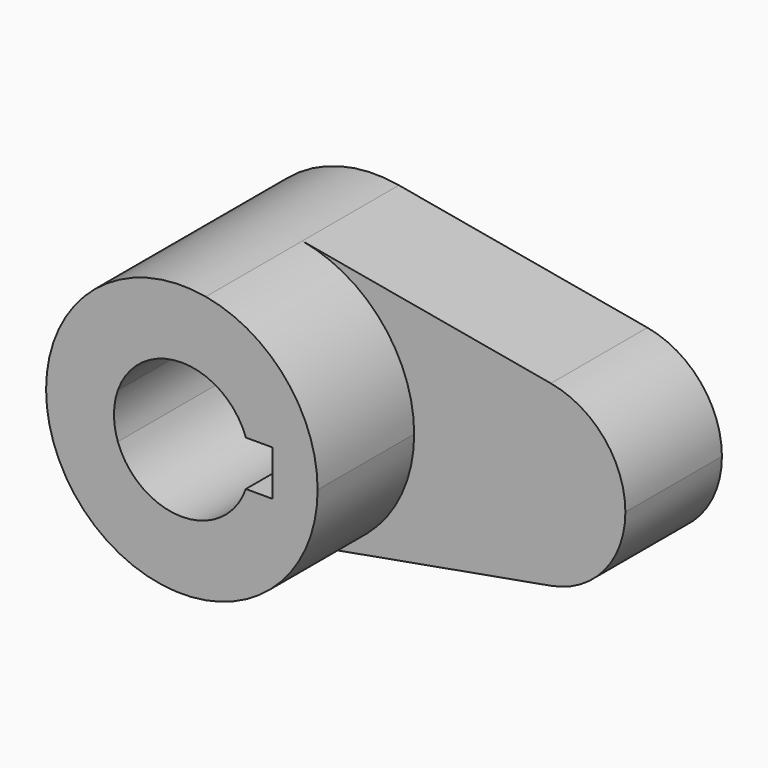
from build123d import *

# Parameters (mm, degrees)
F0_R     = 14.2875
F1_DEPTH = 25.4
F2_DEPTH = 50.8


with BuildPart() as f1:
    # F0 (on Front) → F1 (new body)
    with BuildSketch(Plane.XZ):
        with BuildLine():
            ThreePointArc((5.042647, -28.126541), (21.916025, -18.336262), (28.575, 0))
            ThreePointArc((28.575, 0), (21.916025, 18.336262), (5.042647, 28.126541))
            ThreePointArc((5.042647, 28.126541), (-28.575, 0), (5.042647, -28.126541))
        make_face()
        with BuildLine():
            ThreePointArc((-13.470384, 4.7625), (0, 14.2875), (13.470384, 4.7625))
            Line((13.470384, 4.7625), (19.05, 4.7625))
            Line((19.05, 4.7625), (19.05, -4.7625))
            Line((19.05, -4.7625), (13.470384, -4.7625))
            ThreePointArc((13.470384, -4.7625), (0, -14.2875), (-13.470384, -4.7625))
            Line((-13.470384, -4.7625), (-19.05, -4.7625))
            Line((-19.05, -4.7625), (-19.05, 4.7625))
            Line((-19.05, 4.7625), (-13.470384, 4.7625))
        make_face(mode=Mode.SUBTRACT)
        with BuildLine():
            ThreePointArc((5.042647, 28.126541), (21.916025, 18.336262), (28.575, 0))
            ThreePointArc((28.575, 0), (21.916025, -18.336262), (5.042647, -28.126541))
            Line((5.042647, -28.126541), (57.336765, -18.751028))
            ThreePointArc((57.336765, -18.751028), (34.925, 0), (57.336765, 18.751028))
            Line((57.336765, 18.751028), (5.042647, 28.126541))
        make_face()
        with BuildLine():
            ThreePointArc((73.025, 0), (68.585683, 12.224174), (57.336765, 18.751028))
            ThreePointArc((57.336765, 18.751028), (34.925, 0), (57.336765, -18.751028))
            ThreePointArc((57.336765, -18.751028), (68.585683, -12.224174), (73.025, 0))
        make_face()
        with Locations((53.975, 0)):
            Circle(F0_R, mode=Mode.SUBTRACT)
        with Locations((53.975, 0)):
            Circle(F0_R)
        with BuildLine():
            ThreePointArc((-13.470384, -4.7625), (-14.2875, 0), (-13.470384, 4.7625))
            Line((-13.470384, 4.7625), (-19.05, 4.7625))
            Line((-19.05, 4.7625), (-19.05, -4.7625))
            Line((-19.05, -4.7625), (-13.470384, -4.7625))
        make_face()
    extrude(amount=F1_DEPTH)

    # F0 (on Front) → F2 (join)
    with BuildSketch(Plane.XZ):
        with BuildLine():
            ThreePointArc((5.042647, -28.126541), (21.916025, -18.336262), (28.575, 0))
            ThreePointArc((28.575, 0), (21.916025, 18.336262), (5.042647, 28.126541))
            ThreePointArc((5.042647, 28.126541), (-28.575, 0), (5.042647, -28.126541))
        make_face()
        with BuildLine():
            ThreePointArc((-13.470384, 4.7625), (0, 14.2875), (13.470384, 4.7625))
            Line((13.470384, 4.7625), (19.05, 4.7625))
            Line((19.05, 4.7625), (19.05, -4.7625))
            Line((19.05, -4.7625), (13.470384, -4.7625))
            ThreePointArc((13.470384, -4.7625), (0, -14.2875), (-13.470384, -4.7625))
            Line((-13.470384, -4.7625), (-19.05, -4.7625))
            Line((-19.05, -4.7625), (-19.05, 4.7625))
            Line((-19.05, 4.7625), (-13.470384, 4.7625))
        make_face(mode=Mode.SUBTRACT)
        with BuildLine():
            ThreePointArc((-13.470384, -4.7625), (-14.2875, 0), (-13.470384, 4.7625))
            Line((-13.470384, 4.7625), (-19.05, 4.7625))
            Line((-19.05, 4.7625), (-19.05, -4.7625))
            Line((-19.05, -4.7625), (-13.470384, -4.7625))
        make_face()
    extrude(amount=F2_DEPTH)


solid = f1.part
